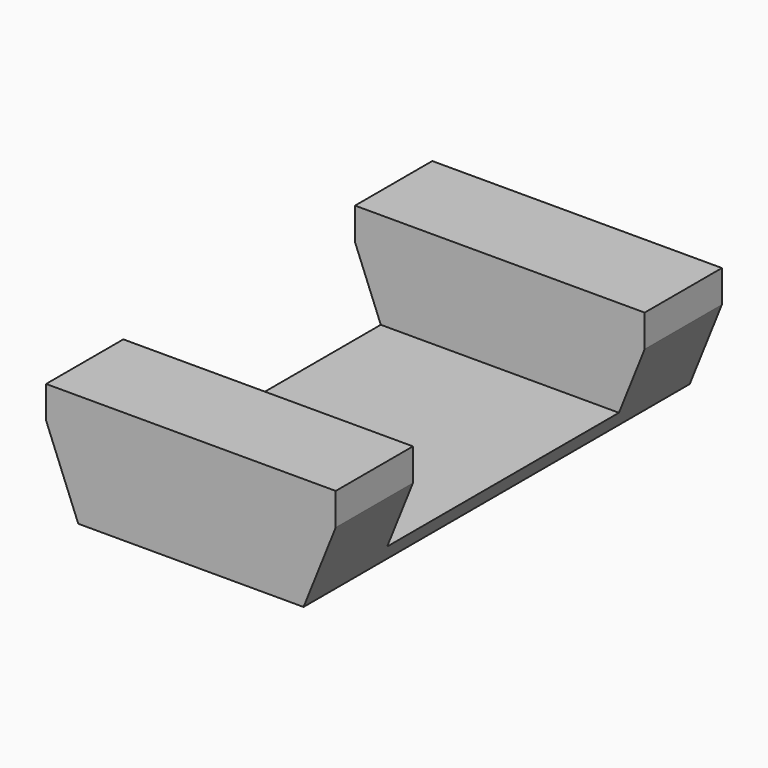
from build123d import *

# Parameters (mm, degrees)
F1_DEPTH = 15
F3_DEPTH = 3


with BuildPart() as f1:
    # F0 (on Front) → F1 (new body)
    with BuildSketch(Plane.XZ):
        Polygon((-3.5, 0), (0, 0), (3.5, 0), (4.5, 2.5), (4.5, 3.5), (0, 3.5), (-4.5, 3.5), (-4.5, 2.5), align=None)
        Polygon((-3.5, 0), (0, 0), (3.5, 0), (4.5, 2.5), (4.5, 3.5), (0, 3.5), (-4.5, 3.5), (-4.5, 2.5), align=None)
    extrude(amount=F1_DEPTH)

    # F2 (on face) → F3 (cut)
    with BuildSketch(Plane.XY.offset(3.5)):
        Polygon((4.5, -12), (4.5, -7.5), (4.5, -3), (-4.5, -3), (-4.5, -7.5), (-4.5, -12), align=None)
    extrude(amount=-F3_DEPTH, mode=Mode.SUBTRACT)


solid = f1.part
